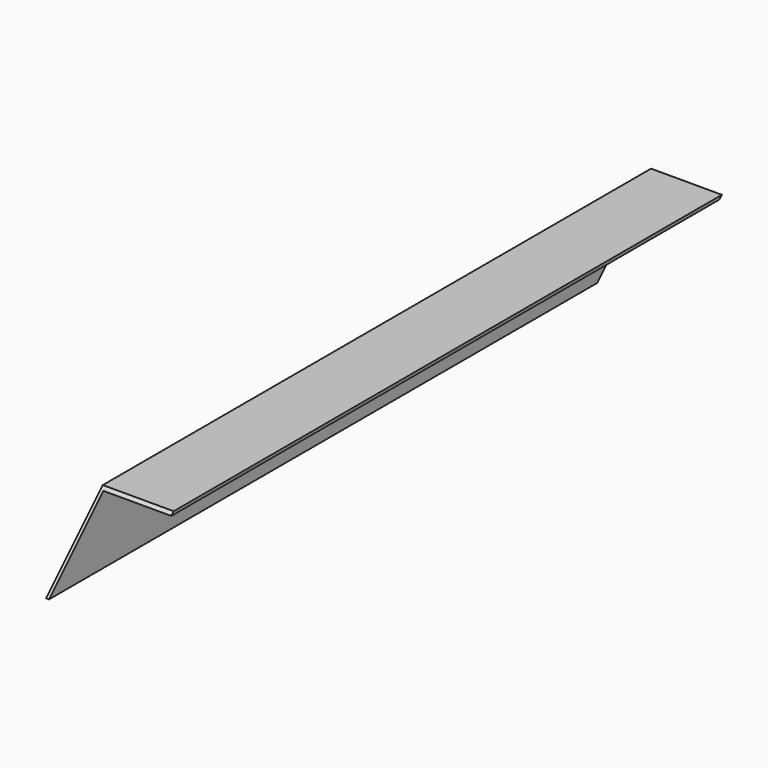
from build123d import *

# Parameters (mm, degrees)
F1_DEPTH = 640
F3_DEPTH = 60.001


with BuildPart() as f1:
    # F0 (on Front) → F1 (new body)
    with BuildSketch(Plane.XZ):
        Polygon((60, 0), (0, 0), (0, -60), (2.5, -60), (2.5, -2.5), (60, -2.5), align=None)
    extrude(amount=F1_DEPTH)

    # F2 (on face) → F3 (cut, through all)
    with BuildSketch(Plane(origin=(0, 0, 0), x_dir=(0, -1, 0), z_dir=(-1, 0, 0))):
        Polygon((60, -60), (0, 0), (0, -60), align=None)
        Polygon((580, 0), (640, -60), (640, 0), align=None)
    extrude(amount=-F3_DEPTH, mode=Mode.SUBTRACT)


solid = f1.part
